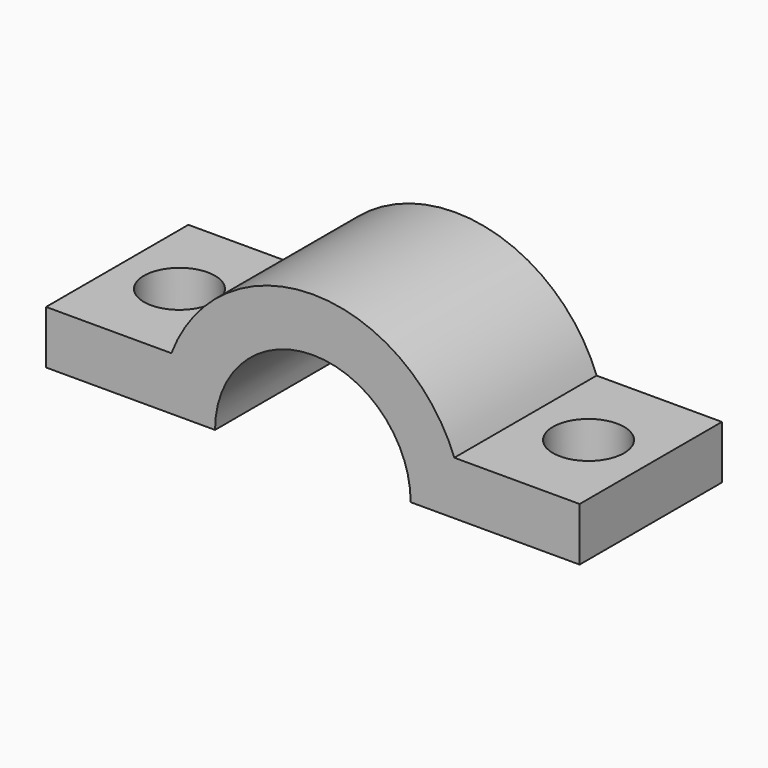
from build123d import *

# Parameters (mm, degrees)
F0_W     = 30
F0_H     = 10
F1_DEPTH = 17
F3_DEPTH = 25
F4_R     = 2
F5_DEPTH = 25


with BuildPart() as f1:
    # F0 (on Top) → F1 (new body)
    with BuildSketch(Plane.XY):
        with Locations((5.848114, 1.410811)):
            Rectangle(F0_W, F0_H)
    extrude(amount=F1_DEPTH)

    # F2 (on face) → F3 (cut)
    with BuildSketch(Plane.XZ.offset(3.589189)):
        with BuildLine():
            ThreePointArc((-2.104872, 3), (5.848114, 8.5), (13.801101, 3))
            Line((13.801101, 3), (20.848114, 3))
            Line((20.848114, 3), (20.848114, 17))
            Line((20.848114, 17), (-9.151886, 17))
            Line((-9.151886, 17), (-9.151886, 3))
            Line((-9.151886, 3), (-2.104872, 3))
        make_face()
        with BuildLine():
            Line((0.348114, 0), (11.348114, 0))
            ThreePointArc((11.348114, 0), (5.848114, 5.5), (0.348114, 0))
        make_face()
    extrude(amount=-F3_DEPTH, mode=Mode.SUBTRACT)

    # F4 (on face) → F5 (cut)
    with BuildSketch(Plane.XY.offset(3)):
        with Locations((-5.651886, 1.410811)):
            Circle(F4_R)
        with Locations((17.348114, 1.410811)):
            Circle(F4_R)
    extrude(amount=-F5_DEPTH, mode=Mode.SUBTRACT)


solid = f1.part
